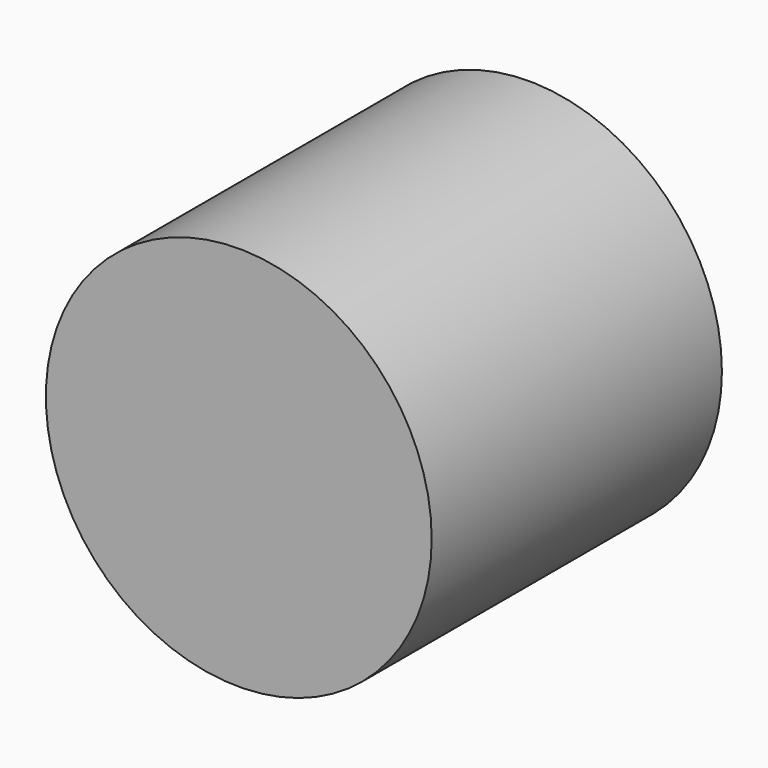
from build123d import *

# Parameters (mm, degrees)
F0_R     = 27.0138728345
F2_DEPTH = 50.8
F1_R     = 27.0138728345


with BuildPart() as f2:
    # F0 (on Front) → F2 (new body)
    with BuildSketch(Plane.XZ):
        Circle(F0_R)
    extrude(amount=F2_DEPTH)


with BuildPart() as f2b:
    # F1 (on face) → F2, piece 2 (new body)
    with BuildSketch(Plane.XZ):
        Circle(F1_R)
    extrude(amount=F2_DEPTH)


solid = Compound([f2.part, f2b.part])
